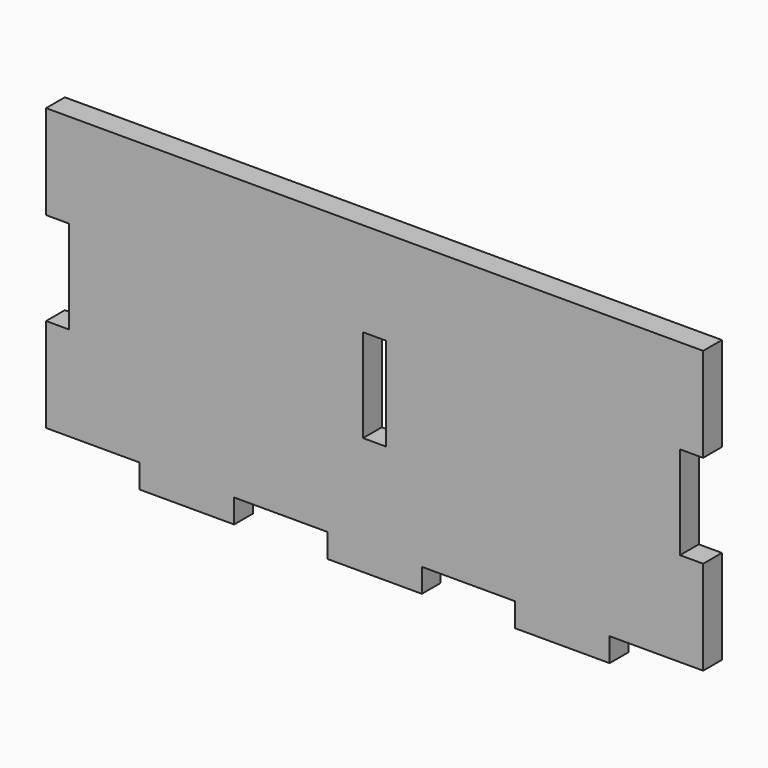
from build123d import *

# Parameters (mm, degrees)
F0_W     = 6.2611
F0_H     = 25.2222
F0_W_2   = 25.5778
F0_H_2   = 6.4389
F1_DEPTH = 6.35


with BuildPart() as f1:
    # F0 (on Front) → F1 (new body)
    with BuildSketch(Plane.XZ):
        Polygon((0, 25.4889), (0, 0), (25.3111, 0), (50.8889, 0), (76.1111, 0), (101.6889, 0), (126.9111, 0), (152.4889, 0), (177.8, 0), (177.8, 25.4889), (171.5389, 25.4889), (171.5389, 50.7111), (177.8, 50.7111), (177.8, 76.2), (0, 76.2), (0, 50.7111), (6.2611, 50.7111), (6.2611, 25.4889), align=None)
        with Locations((88.9, 38.1)):
            Rectangle(F0_W, F0_H, mode=Mode.SUBTRACT)
        with Locations((38.1, -3.21945)):
            Rectangle(F0_W_2, F0_H_2)
        with Locations((88.9, -3.21945)):
            Rectangle(F0_W_2, F0_H_2)
        with Locations((139.7, -3.21945)):
            Rectangle(F0_W_2, F0_H_2)
    extrude(amount=F1_DEPTH)


solid = f1.part
